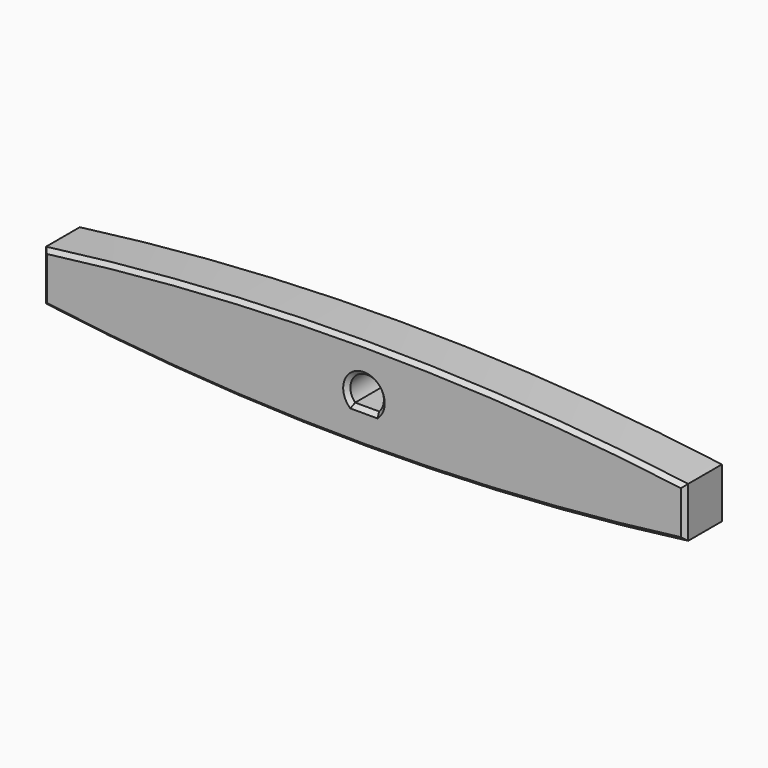
from build123d import *

# Parameters (mm, degrees)
F1_DEPTH = 7.9375
F3_DEPTH = 7.9385
F4_SIZE  = 0.635


with BuildPart() as f1:
    # F0 (on Front) → F1 (new body)
    with BuildSketch(Plane.XZ):
        with BuildLine():
            Line((0, 7.9375), (0, 0))
            ThreePointArc((0, 0), (50.8, -3.3566973387), (101.6, 0))
            Line((101.6, 0), (101.6, 7.9375))
            ThreePointArc((101.6, 7.9375), (50.8, 11.2941973387), (0, 7.9375))
        make_face()
    extrude(amount=F1_DEPTH)

    # F2 (on face) → F3 (cut, through all)
    with BuildSketch(Plane.XZ.offset(7.9375)):
        with BuildLine():
            Line((48.9026334039, 2.11875), (52.6973665961, 2.11875))
            ThreePointArc((52.6973665961, 2.11875), (50.8, 6.61875), (48.9026334039, 2.11875))
        make_face()
    extrude(amount=-F3_DEPTH, mode=Mode.SUBTRACT)

    # F4
    f4_edges = [f1.edges().sort_by_distance(p)[0] for p in [
        (50.8, -7.9375, 11.294197),
        (101.6, -7.9375, 3.96875),
        (0, -7.9375, 3.96875),
        (50.8, -7.9375, -3.356697),
        (50.8, -7.9375, 2.11875),
        (50.8, -7.9375, 6.61875),
        (50.8, 0, 11.294197),
        (101.6, 0, 3.96875),
        (0, 0, 3.96875),
        (50.8, 0, -3.356697),
        (50.8, 0, 2.11875),
        (50.8, 0, 6.61875),
    ]]
    chamfer(f4_edges, length=F4_SIZE)


solid = f1.part
